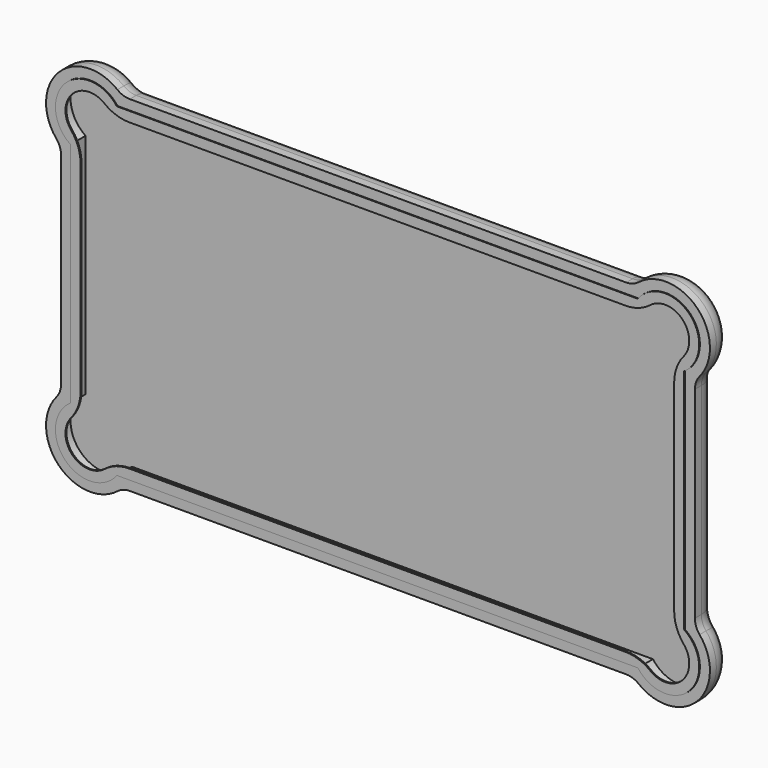
from build123d import *

# Parameters (mm, degrees)
F1_DEPTH = 7
F2_T     = -2.5
F3_R     = 5
F4_START = 4.4
F4_DEPTH = 0.3
F5_START = -6.4
F5_DEPTH = 17
F8_DEPTH = 1
F9_DEPTH = 1


with BuildPart() as f1:
    # F0 (on Front) → F1 (new body)
    with BuildSketch(Plane.XZ):
        with BuildLine():
            Line((79, -27.1386106992), (79, -43))
            Line((79, -43), (63.7868195772, -43))
            ThreePointArc((63.7868195772, -43), (79.6885052365, -43.025404357), (79, -27.1386106992))
        make_face()
        Polygon((63.7868195772, -43), (79, -43), (79, -27.1386106992), (79, 27.1386106992), (79, 43), (63.7868195772, 43), (-63.7868195772, 43), (-79, 43), (-79, 27.1386106992), (-79, -27.1386106992), (-79, -43), (-63.7868195772, -43), align=None)
        with BuildLine():
            ThreePointArc((-79, -27.1386106992), (-79.6885052365, -43.025404357), (-63.7868195772, -43))
            Line((-63.7868195772, -43), (-79, -43))
            Line((-79, -43), (-79, -27.1386106992))
        make_face()
        with BuildLine():
            Line((79, 43), (79, 27.1386106992))
            ThreePointArc((79, 27.1386106992), (79.6885052365, 43.025404357), (63.7868195772, 43))
            Line((63.7868195772, 43), (79, 43))
        make_face()
        with BuildLine():
            ThreePointArc((-63.7868195772, 43), (-79.6885052365, 43.025404357), (-79, 27.1386106992))
            Line((-79, 27.1386106992), (-79, 43))
            Line((-79, 43), (-63.7868195772, 43))
        make_face()
    extrude(amount=F1_DEPTH)

    # F2
    f2_openings = [f1.faces().sort_by_distance(p)[0] for p in [
        (0, -7, 0),
    ]]
    offset(amount=F2_T, openings=f2_openings, kind=Kind.INTERSECTION)

    # F3
    f3_edges = [f1.edges().sort_by_distance(p)[0] for p in [
        (79.688505, 0, -43.025404),
        (79, 0, 0),
        (79.688505, 0, 43.025404),
        (0, 0, 43),
        (-79.688505, 0, 43.025404),
        (-79, 0, 0),
        (-79.688505, 0, -43.025404),
        (0, 0, -43),
        (-79, -3.5, -27.138611),
        (-79, -3.5, 27.138611),
        (-63.78682, -3.5, 43),
        (63.78682, -3.5, 43),
        (63.78682, -3.5, -43),
        (-63.78682, -3.5, -43),
        (79, -3.5, 27.138611),
        (79, -3.5, -27.138611),
    ]]
    fillet(f3_edges, radius=F3_R)

    # F2_face (on face) → F4 (join)
    with BuildSketch(Plane.XZ.offset(2.5).offset(F4_START)):
        with BuildLine():
            ThreePointArc((64.941467884, -40.5), (77.9052707975, -41.2728998022), (76.5, -28.3623314929))
            Line((76.5, -28.3623314929), (76.5, 28.3623314929))
            ThreePointArc((76.5, 28.3623314929), (77.9052707975, 41.2728998022), (64.941467884, 40.5))
            Line((64.941467884, 40.5), (-64.941467884, 40.5))
            ThreePointArc((-64.941467884, 40.5), (-77.9052707975, 41.2728998022), (-76.5, 28.3623314929))
            Line((-76.5, 28.3623314929), (-76.5, -28.3623314929))
            ThreePointArc((-76.5, -28.3623314929), (-77.9052707975, -41.2728998022), (-64.941467884, -40.5))
            Line((-64.941467884, -40.5), (64.941467884, -40.5))
        make_face()
    extrude(amount=F4_DEPTH)

    # F1_face (on face) → F5 (cut)
    with BuildSketch(Plane(origin=(0, 0, 0), x_dir=(1, 0, 0), z_dir=(0, 1, 0)).offset(F5_START)):
        with BuildLine():
            ThreePointArc((76.3436291143, 31.5515006602), (76.0630846824, 39.5819443632), (68.0465883661, 40.1319607767))
            ThreePointArc((68.0465883661, 40.1319607767), (65.1394935146, 38.5480057069), (61.8745580047, 38))
            Line((61.8745580047, 38), (-61.8745580047, 38))
            ThreePointArc((-61.8745580047, 38), (-65.1394935146, 38.5480057069), (-68.0465883661, 40.1319607767))
            ThreePointArc((-68.0465883661, 40.1319607767), (-76.0630846824, 39.5819443632), (-76.3436291143, 31.5515006602))
            ThreePointArc((-76.3436291143, 31.5515006602), (-74.6041575988, 28.5419507233), (-74, 25.1187730225))
            Line((-74, 25.1187730225), (-74, -25.1187730225))
            ThreePointArc((-74, -25.1187730225), (-74.6041575988, -28.5419507233), (-76.3436291143, -31.5515006602))
            ThreePointArc((-76.3436291143, -31.5515006602), (-76.0630846824, -39.5819443632), (-68.0465883661, -40.1319607767))
            ThreePointArc((-68.0465883661, -40.1319607767), (-65.1394935146, -38.5480057069), (-61.8745580047, -38))
            Line((-61.8745580047, -38), (61.8745580047, -38))
            ThreePointArc((61.8745580047, -38), (65.1394935146, -38.5480057069), (68.0465883661, -40.1319607767))
            ThreePointArc((68.0465883661, -40.1319607767), (76.0630846824, -39.5819443632), (76.3436291143, -31.5515006602))
            ThreePointArc((76.3436291143, -31.5515006602), (74.6041575988, -28.5419507233), (74, -25.1187730225))
            Line((74, -25.1187730225), (74, 25.1187730225))
            ThreePointArc((74, 25.1187730225), (74.6041575988, 28.5419507233), (76.3436291143, 31.5515006602))
        make_face()
    extrude(amount=-F5_DEPTH, mode=Mode.SUBTRACT)

    # F7 (on Front) → F8 (join)
    with BuildSketch(Plane.XZ):
        Polygon((23.1772679069, 0), (21.4374381283, 11.6622741334), (17.1453765759, 11.6622741334), (13.7863717207, 2.6116218651), (12.0135638097, 11.6622741334), (8.4679498502, 11.6622741334), (10.0079718977, 0), (15.4187687256, 0), (18.73157352, 8.3032688126), (18.73157352, 0), align=None)
        with BuildLine():
            Line((-5.0701942442, -0.6376432131), (-6.5802919556, 11.4661888219))
            Line((-6.5802919556, 11.4661888219), (-12.8139236365, 11.4661888219))
            ThreePointArc((-12.8139236365, 11.4661888219), (-15.534828274, 9.2659027089), (-12.8001875357, 7.0827121404))
            Line((-12.8001875357, 7.0827121404), (-18.3761510998, -2.066497691))
            Line((-18.3761510998, -2.066497691), (-15.1374671539, -2.066497691))
            Line((-15.1374671539, -2.066497691), (-9.563349827, 7.0796827786))
            Line((-9.563349827, 7.0796827786), (-8.7467087398, -0.6182132798))
            Line((-8.7467087398, -0.6182132798), (-5.0701942442, -0.6376432131))
        make_face()
        with BuildLine():
            Line((-9.563349827, 9.9741970189), (-9.563349827, 8.6406883784))
            ThreePointArc((-9.563349827, 8.6406883784), (-10.8035467339, 9.3074426986), (-9.563349827, 9.9741970189))
        make_face(mode=Mode.SUBTRACT)
    extrude(amount=-F8_DEPTH)

    # F6 (on Front) → F9 (join)
    with BuildSketch(Plane.XZ):
        Polygon((-9.5606744289, -6.0915797949), (48.9419922233, -6.0915797949), (37.1854752302, 11.6365021095), (47.4491044879, 11.6365021095), (44.5592839973, 15.9941681066), (27.1084606647, 15.9941681066), (29.9982811553, 11.6365021095), (32.2513249172, 11.6365021095), (40.3898798746, 0), (38.1885262731, 0), (38.6355255824, -0.674046605), (39.1343846565, -1.426294446), (-10.9602598241, -1.426294446), align=None)
        Polygon((5.8846781691, -0.5484537098), (8.4719900042, -0.5484537098), (8.4719900042, 0), (3.0106580947, 11.4377074067), (-1.9455914656, 11.4377074067), (-5.0675188461, -0.5484537098), (-1.6367090205, -0.5484537098), (-1.0517511561, 1.5990917147), (-0.4490015639, 3.8119555939), (0.9761797925, 9.0441986111), (3.6534848273, 3.8119555939), (4.7857930144, 1.5990917147), align=None)
        Polygon((32.2513249172, 11.6365021095), (29.9982811553, 11.6365021095), (27.295075357, 11.6365021095), (24.2896080017, 0), (27.6991994597, 0), (28.1889156664, 1.7978864174), (28.7916652586, 4.0107502967), (30.2168466151, 9.2429933138), (32.8941516499, 4.0107502967), (34.026459837, 1.7978864174), (34.946426731, 0), (38.1885262731, 0), (40.3898798746, 0), align=None)
        Polygon((28.1889156664, 1.7978864174), (34.026459837, 1.7978864174), (32.8941516499, 4.0107502967), (28.7916652586, 4.0107502967), align=None)
        Polygon((-1.0517511561, 1.5990917147), (4.7857930144, 1.5990917147), (3.6534848273, 3.8119555939), (-0.4490015639, 3.8119555939), align=None)
        with BuildLine():
            Line((-22.3105447367, 1.8414439801), (-15.7975266464, 1.8414439801))
            Line((-15.7975266464, 1.8414439801), (-16.864389616, 11.2856258739))
            Line((-16.864389616, 11.2856258739), (-22.7028476074, 11.2856258739))
            ThreePointArc((-22.7028476074, 11.2856258739), (-26.7734656682, 8.1393234119), (-25.5645806647, 3.1385487092))
            Line((-25.5645806647, 3.1385487092), (-24.5642485011, 3.1298348557))
            Line((-24.5642485011, 3.1298348557), (-24.7804459147, 2.5374855343))
            ThreePointArc((-24.7804459147, 2.5374855343), (-23.5935963407, 2.0187784628), (-22.3105447367, 1.8414439801))
        make_face()
        with BuildLine():
            Line((-20.2313447371, 8.9666009881), (-19.4467399269, 4.4519640505))
            Line((-19.4467399269, 4.4519640505), (-21.9182437286, 4.4519640505))
            ThreePointArc((-21.9182437286, 4.4519640505), (-23.6280476377, 6.5664747526), (-22.3497757688, 8.9666009881))
            Line((-22.3497757688, 8.9666009881), (-20.2313447371, 8.9666009881))
        make_face(mode=Mode.SUBTRACT)
        with BuildLine():
            Line((-26.0348487645, -0.8993949741), (-24.7804459147, 2.5374855343))
            ThreePointArc((-24.7804459147, 2.5374855343), (-25.1882492443, 2.8174883165), (-25.5645806647, 3.1385487092))
            Line((-25.5645806647, 3.1385487092), (-27.9585813324, 3.1594027532))
            Line((-27.9585813324, 3.1594027532), (-27.804054518, 2.5152859968))
            Line((-27.804054518, 2.5152859968), (-25.4283379763, 2.5152859968))
            Line((-25.4283379763, 2.5152859968), (-26.7813242972, -1.3659233227))
            Line((-26.7813242972, -1.3659233227), (-24.798498489, -1.3659233227))
            Line((-24.798498489, -1.3659233227), (-24.9433865425, -0.8993949741))
            Line((-24.9433865425, -0.8993949741), (-26.0348487645, -0.8993949741))
        make_face()
        with BuildLine():
            ThreePointArc((-25.5645806647, 3.1385487092), (-25.1882492443, 2.8174883165), (-24.7804459147, 2.5374855343))
            Line((-24.7804459147, 2.5374855343), (-24.5642485011, 3.1298348557))
            Line((-24.5642485011, 3.1298348557), (-25.5645806647, 3.1385487092))
        make_face()
        with BuildLine():
            Line((-30.4127864985, 3.1594027532), (-27.9585813324, 3.1594027532))
            Line((-27.9585813324, 3.1594027532), (-29.4332441966, 9.306265126))
            Line((-29.4332441966, 9.306265126), (-29.586242451, 9.9440103599))
            Line((-29.586242451, 9.9440103599), (-29.9116987735, 11.3006155007))
            Line((-29.9116987735, 11.3006155007), (-32.8275021166, 11.3006155007))
            Line((-32.8275021166, 11.3006155007), (-32.6839765454, 10.6233039747))
            Line((-32.6839765454, 10.6233039747), (-32.3657558496, 10.5451296039))
            ThreePointArc((-32.3657558496, 10.5451296039), (-32.153857652, 10.1652620017), (-32.5478664857, 9.9809869888))
            Line((-32.5478664857, 9.9809869888), (-31.1023399651, 3.1594027532))
            Line((-31.1023399651, 3.1594027532), (-30.9793177893, 2.5788488006))
            Line((-30.9793177893, 2.5788488006), (-30.7524077461, 1.5080376107))
            Line((-30.7524077461, 1.5080376107), (-27.5557301939, 1.4801914804))
            Line((-27.5557301939, 1.4801914804), (-27.804054518, 2.5152859968))
            Line((-27.804054518, 2.5152859968), (-30.257102102, 2.5152859968))
            ThreePointArc((-30.257102102, 2.5152859968), (-30.588434272, 2.7760753071), (-30.4127864985, 3.1594027532))
        make_face()
        with BuildLine():
            Line((-27.804054518, 2.5152859968), (-27.9585813324, 3.1594027532))
            Line((-27.9585813324, 3.1594027532), (-30.4127864985, 3.1594027532))
            ThreePointArc((-30.4127864985, 3.1594027532), (-30.588434272, 2.7760753071), (-30.257102102, 2.5152859968))
            Line((-30.257102102, 2.5152859968), (-27.804054518, 2.5152859968))
        make_face()
        Polygon((-29.586242451, 9.9440103599), (-29.4332441966, 9.306265126), (-27.307823091, 8.4899354265), (-26.5378219163, 10.4947341606), (-26.5378219163, 10.9885608836), (-26.9133256425, 11.1327839946), (-27.307823091, 11.1327839946), (-27.2237212953, 10.782221045), (-26.9133256425, 10.6630045804), (-27.4975877255, 9.1418018565), align=None)
        Polygon((-32.7465683222, 0), (-30.9793177893, 2.5788488006), (-31.1023399651, 3.1594027532), (-32.7465683222, 0.8514146321), (-33.7921289737, 2.6546009168), (-34.0583855855, 3.1594027532), (-34.8076948605, 2.7641812339), (-34.6764156183, 2.5152859968), (-34.2045295984, 2.7641812339), align=None)
        with BuildLine():
            Line((-32.3657558496, 10.5451296039), (-32.6839765454, 10.6233039747))
            Line((-32.6839765454, 10.6233039747), (-32.5478664857, 9.9809869888))
            ThreePointArc((-32.5478664857, 9.9809869888), (-32.153857652, 10.1652620017), (-32.3657558496, 10.5451296039))
        make_face()
        Polygon((-32.5478664857, 9.9809869888), (-32.6839765454, 10.6233039747), (-35.441076383, 11.3006155007), (-36.2381910961, 8.0558385232), (-36.7602386357, 8.1840851724), (-36.8644782772, 7.759761818), (-36.2381910961, 7.4865594793), (-35.8755029738, 7.8299581073), (-35.1497549564, 10.6504787691), align=None)
        Polygon((-32.8275021166, 12.0089505645), (-29.9116987735, 11.9540398009), (-30.4951041875, 14.3858585402), (-33.3977341652, 14.3858585402), align=None)
    extrude(amount=-F9_DEPTH)


solid = f1.part
